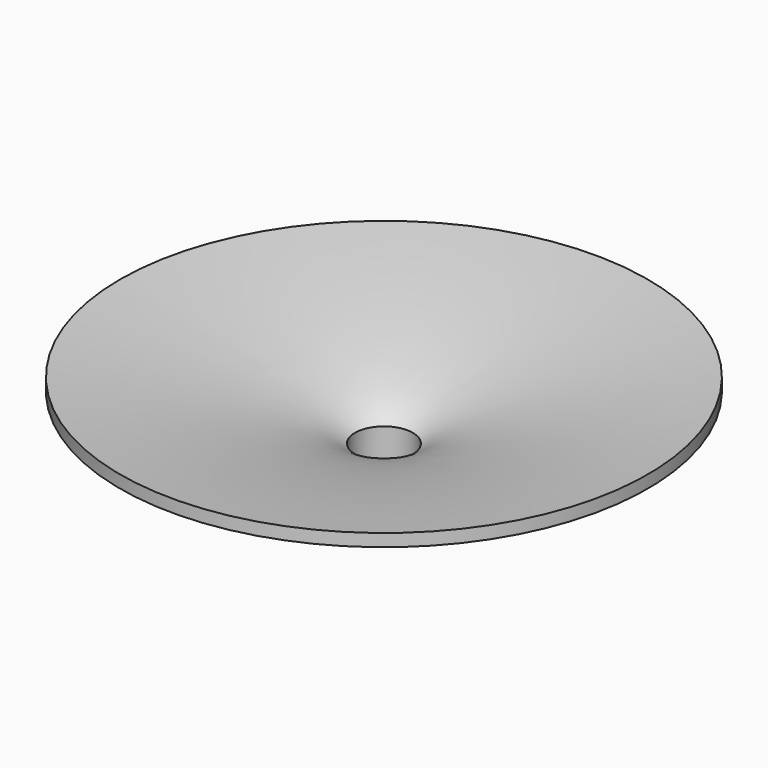
from build123d import *


with BuildPart() as f1:
    # F0 (on Front) → F1 (revolve)
    with BuildSketch(Plane.XZ):
        with BuildLine():
            Line((-75, -96.75), (-30, -96.75))
            Line((-30, -96.75), (-30, -60.75))
            add(Edge.make_bspline(
                [(-30, -60.75), (-44.5, -49.25), (-90.6218993502, -30.7258402416), (-193.7, -10.75), (-273.7, 0)],
                knots=[0, 0, 0, 0, 0.3593297164, 1, 1, 1, 1], degree=3))
            Line((-273.7, 0), (-273.7, -13))
            add(Edge.make_bspline(
                [(-75, -96.75), (-80, -88.25), (-92.7808748602, -51.6613793544), (-200.2, -27.25), (-273.7, -13)],
                knots=[0, 0, 0, 0, 0.3097758358, 1, 1, 1, 1], degree=3))
        make_face()
    revolve(axis=Axis((0, 0, -85.6049060822), (0, 0, -1)))


solid = f1.part
